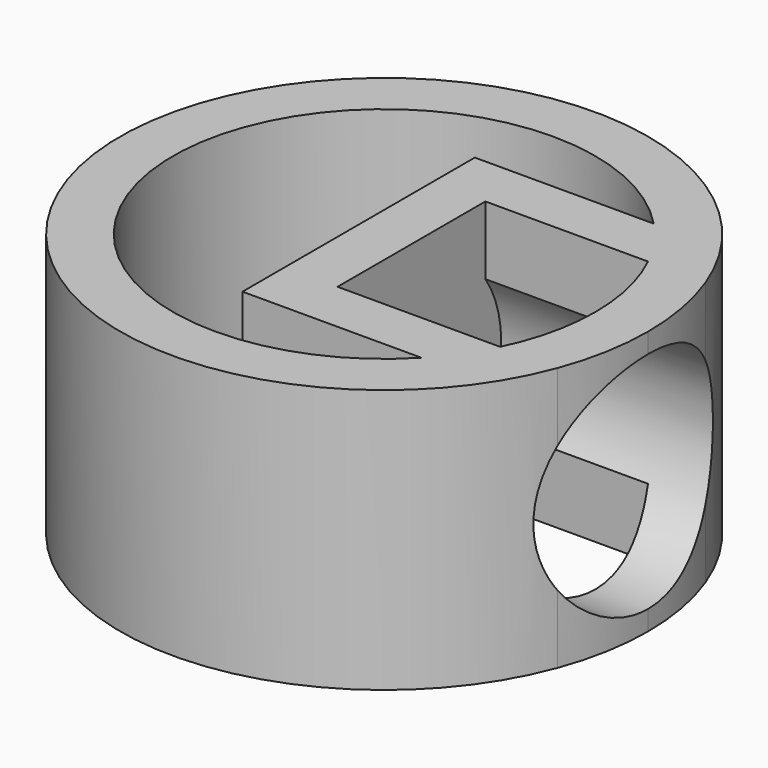
from build123d import *

# Parameters (mm, degrees)
F1_DEPTH = 30
F2_R     = 12.75
F3_DEPTH = 30


with BuildPart() as f1:
    # F0 (on Top) → F1 (new body)
    with BuildSketch(Plane.XY):
        with BuildLine():
            ThreePointArc((28.1024909928, -10.5), (29.5218116804, -5.3350384355), (30, 0))
            ThreePointArc((30, 0), (29.5218116804, 5.3350384355), (28.1024909928, 10.5))
            Line((28.1024909928, 10.5), (28.1024909928, -10.5))
        make_face()
        with BuildLine():
            Line((21.5812418549, 10.5), (28.1024909928, 10.5))
            ThreePointArc((28.1024909928, 10.5), (26.747487876, 13.5857238424), (25.0549396327, 16.5))
            Line((25.0549396327, 16.5), (17.4284250579, 16.5))
            ThreePointArc((17.4284250579, 16.5), (19.7341969222, 13.6587507422), (21.5812418549, 10.5))
        make_face()
        with BuildLine():
            Line((28.1024909928, -10.5), (28.1024909928, 10.5))
            Line((28.1024909928, 10.5), (21.5812418549, 10.5))
            ThreePointArc((21.5812418549, 10.5), (23.3874945699, 5.3874945699), (24, 0))
            ThreePointArc((24, 0), (23.3874945699, -5.3874945699), (21.5812418549, -10.5))
            Line((21.5812418549, -10.5), (28.1024909928, -10.5))
        make_face()
        with BuildLine():
            ThreePointArc((25.0549396327, -16.5), (26.747487876, -13.5857238424), (28.1024909928, -10.5))
            Line((28.1024909928, -10.5), (21.5812418549, -10.5))
            ThreePointArc((21.5812418549, -10.5), (19.7341969222, -13.6587507422), (17.4284250579, -16.5))
            Line((17.4284250579, -16.5), (25.0549396327, -16.5))
        make_face()
        with BuildLine():
            Line((17.4284250579, 16.5), (25.0549396327, 16.5))
            ThreePointArc((25.0549396327, 16.5), (-30, 0), (25.0549396327, -16.5))
            Line((25.0549396327, -16.5), (17.4284250579, -16.5))
            ThreePointArc((17.4284250579, -16.5), (-24, 0), (17.4284250579, 16.5))
        make_face()
        with BuildLine():
            Line((3.1024909928, 10.5), (21.5812418549, 10.5))
            ThreePointArc((21.5812418549, 10.5), (19.7341969222, 13.6587507422), (17.4284250579, 16.5))
            Line((17.4284250579, 16.5), (-2.8975090072, 16.5))
            Line((-2.8975090072, 16.5), (-2.8975090072, -16.5))
            Line((-2.8975090072, -16.5), (17.4284250579, -16.5))
            ThreePointArc((17.4284250579, -16.5), (19.7341969222, -13.6587507422), (21.5812418549, -10.5))
            Line((21.5812418549, -10.5), (3.1024909928, -10.5))
            Line((3.1024909928, -10.5), (3.1024909928, 10.5))
        make_face()
    extrude(amount=F1_DEPTH)

    # F2 (on face) → F3 (cut)
    with BuildSketch(Plane.YZ.offset(3.1024909928)):
        with Locations((0, 15)):
            Circle(F2_R)
    extrude(amount=F3_DEPTH, mode=Mode.SUBTRACT)


solid = f1.part
